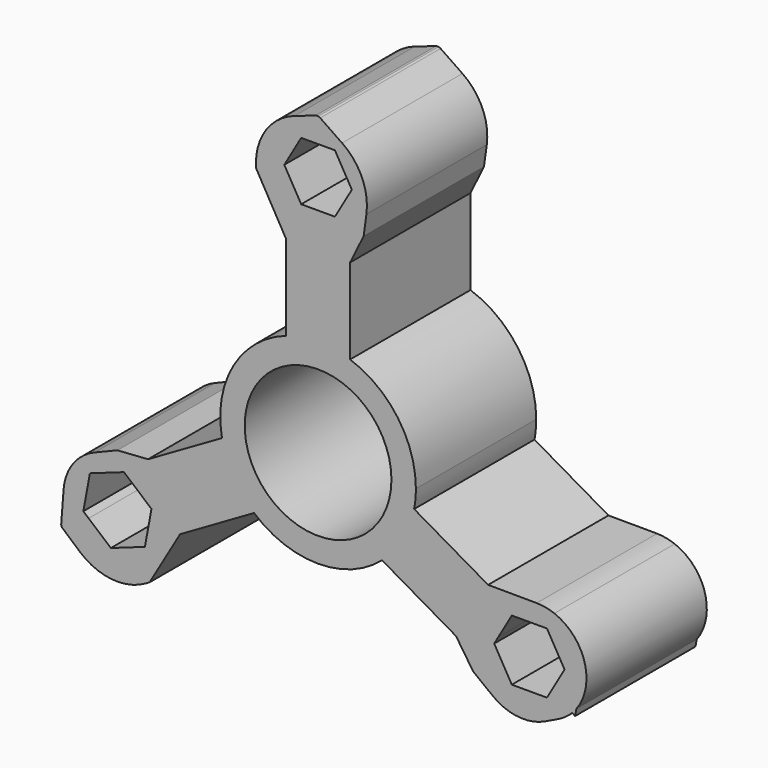
from build123d import *

# Parameters (mm, degrees)
F0_R     = 8.1762348774
F1_DEPTH = 16.764


with BuildPart() as f1:
    # F0 (on Front) → F1 (new body)
    with BuildSketch(Plane.XZ):
        with BuildLine():
            ThreePointArc((10.7045995524, -2.0546407042), (10.8510399299, -1.0319556383), (10.9, 0))
            ThreePointArc((10.9, 0), (8.8812984176, 6.3192197633), (3.5729287307, 10.2977755018))
            ThreePointArc((3.5729287307, 10.2977755018), (0, 10.9), (-3.5729287307, 10.2977755018))
            ThreePointArc((-3.5729287307, 10.2977755018), (-9.4396769013, 5.45), (-10.7045995524, -2.0546407042))
            ThreePointArc((-10.7045995524, -2.0546407042), (-9.4396769013, -5.45), (-7.1316708216, -8.2431347976))
            ThreePointArc((-7.1316708216, -8.2431347976), (0, -10.9), (7.1316708216, -8.2431347976))
            ThreePointArc((7.1316708216, -8.2431347976), (9.4396769013, -5.45), (10.7045995524, -2.0546407042))
        make_face()
        Circle(F0_R, mode=Mode.SUBTRACT)
        with BuildLine():
            ThreePointArc((-3.5729287307, 10.2977755018), (0, 10.9), (3.5729287307, 10.2977755018))
            Line((3.5729287307, 10.2977755018), (3.5729287307, 19.8155592292))
            Line((3.5729287307, 19.8155592292), (5.078934896, 22.8855756019))
            Line((5.078934896, 22.8855756019), (5.3861358478, 25.1383827151))
            ThreePointArc((5.3861358478, 25.1383827151), (4.8979120469, 28.5734299473), (2.6770923706, 31.239114087))
            Line((2.6770923706, 31.239114087), (0.2394953625, 32.9048861241))
            ThreePointArc((0.2394953625, 32.9048861241), (0.1250583953, 32.9655378852), (0, 32.9992254696))
            ThreePointArc((0, 32.9992254696), (-0.1387115468, 33.0035052248), (-0.2744548515, 32.9746440958))
            Line((-0.2744548515, 32.9746440958), (-2.6277035917, 32.1694766202))
            ThreePointArc((-2.6277035917, 32.1694766202), (-5.7380801108, 29.853914456), (-6.9220383964, 26.1614203118))
            Line((-6.9220383964, 26.1614203118), (-6.9220383964, 25.6764997761))
            Line((-6.9220383964, 25.6764997761), (-3.5729287307, 19.8155592292))
            Line((-3.5729287307, 19.8155592292), (-3.5729287307, 10.2977755018))
        make_face()
        Polygon((-1.8806647364, 30.2667208016), (0, 30.2667208016), (1.8806647364, 30.2667208016), (3.7613294728, 27.0093139261), (1.8806647364, 23.7519070506), (0, 23.7519070506), (-1.8806647364, 23.7519070506), (-3.7613294728, 27.0093139261), align=None, mode=Mode.SUBTRACT)
        with BuildLine():
            Line((18.947242048, -6.8135325679), (10.7045995524, -2.0546407042))
            ThreePointArc((10.7045995524, -2.0546407042), (9.4396769013, -5.45), (7.1316708216, -8.2431347976))
            Line((7.1316708216, -8.2431347976), (15.3743133173, -13.0020266613))
            Line((15.3743133173, -13.0020266613), (17.2800224035, -15.8412744451))
            Line((17.2800224035, -15.8412744451), (19.4543915529, -17.5257716809))
            ThreePointArc((19.4543915529, -17.5257716809), (22.2820714904, -18.6631064405), (25.2854497533, -18.1444319823))
            Line((25.2854497533, -18.1444319823), (26.7438602666, -17.4440315112))
            ThreePointArc((26.7438602666, -17.4440315112), (27.5677621083, -16.9572968799), (28.2963483866, -16.3369043581))
            ThreePointArc((28.2963483866, -16.3369043581), (28.5524118785, -16.0596668899), (28.7891431297, -15.7657494859))
            Line((28.7891431297, -15.7657494859), (29.2797580155, -13.2677285991))
            ThreePointArc((29.2797580155, -13.2677285991), (28.8843269769, -9.8844337919), (26.595254614, -7.3618959476))
            Line((26.595254614, -7.3618959476), (26.3302729622, -7.2089087196))
            ThreePointArc((26.3302729622, -7.2089087196), (25.3589284831, -6.933455194), (24.3538425846, -6.8376059446))
            Line((24.3538425846, -6.8376059446), (18.947242048, -6.8135325679))
        make_face()
        Polygon((25.9469195413, -14.9804609818), (25.5060197939, -15.7441217452), (21.5879713963, -15.7441217452), (19.6289471975, -12.3509922996), (20.0698469448, -11.5873315362), (21.5879713963, -8.957862854), (25.5060197939, -8.957862854), (27.4650439927, -12.3509922996), align=None, mode=Mode.SUBTRACT)
        with BuildLine():
            ThreePointArc((-7.1316708216, -8.2431347976), (-9.4396769013, -5.45), (-10.7045995524, -2.0546407042))
            Line((-10.7045995524, -2.0546407042), (-18.947242048, -6.8135325679))
            Line((-18.947242048, -6.8135325679), (-22.3589572995, -7.0443011568))
            Line((-22.3589572995, -7.0443011568), (-24.904959273, -8.0851114596))
            ThreePointArc((-24.904959273, -8.0851114596), (-27.3037600362, -9.9652867393), (-28.3562639105, -12.8256258414))
            Line((-28.3562639105, -12.8256258414), (-28.621501234, -16.3145697088))
            ThreePointArc((-28.621501234, -16.3145697088), (-28.6179368344, -16.4128846333), (-28.5926007189, -16.5079457219))
            ThreePointArc((-28.5926007189, -16.5079457219), (-28.5427339525, -16.6008192319), (-28.4721935743, -16.6791533769))
            Line((-28.4721935743, -16.6791533769), (-26.5457321837, -18.3603963741))
            ThreePointArc((-26.5457321837, -18.3603963741), (-22.9852082659, -19.8962803729), (-19.1954353909, -19.0753712531))
            Line((-19.1954353909, -19.0753712531), (-18.7754818882, -18.8329109853))
            Line((-18.7754818882, -18.8329109853), (-15.3743133173, -13.0020266613))
            Line((-15.3743133173, -13.0020266613), (-7.1316708216, -8.2431347976))
        make_face()
        Polygon((-19.1541526712, -11.0586552008), (-18.5637420285, -11.5622606176), (-19.2950824343, -15.5223581541), (-23.0902977052, -16.8690475522), (-25.5637619278, -14.7592448305), (-26.1541725704, -14.2556394138), (-25.4228321647, -10.2955418772), (-21.6276168938, -8.9488524791), align=None, mode=Mode.SUBTRACT)
        with BuildLine():
            ThreePointArc((28.7891431297, -15.7657494859), (29.6901919838, -10.8751191131), (26.3302729622, -7.2089087196))
            Line((26.3302729622, -7.2089087196), (26.595254614, -7.3618959476))
            ThreePointArc((26.595254614, -7.3618959476), (28.8843269769, -9.8844337919), (29.2797580155, -13.2677285991))
            Line((29.2797580155, -13.2677285991), (28.7891431297, -15.7657494859))
        make_face()
        with BuildLine():
            Line((28.6382036926, -16.534274611), (28.7891431297, -15.7657494859))
            ThreePointArc((28.7891431297, -15.7657494859), (28.5524118785, -16.0596668899), (28.2963483866, -16.3369043581))
            Line((28.2963483866, -16.3369043581), (28.6382036926, -16.534274611))
        make_face()
    extrude(amount=-F1_DEPTH)


solid = f1.part
